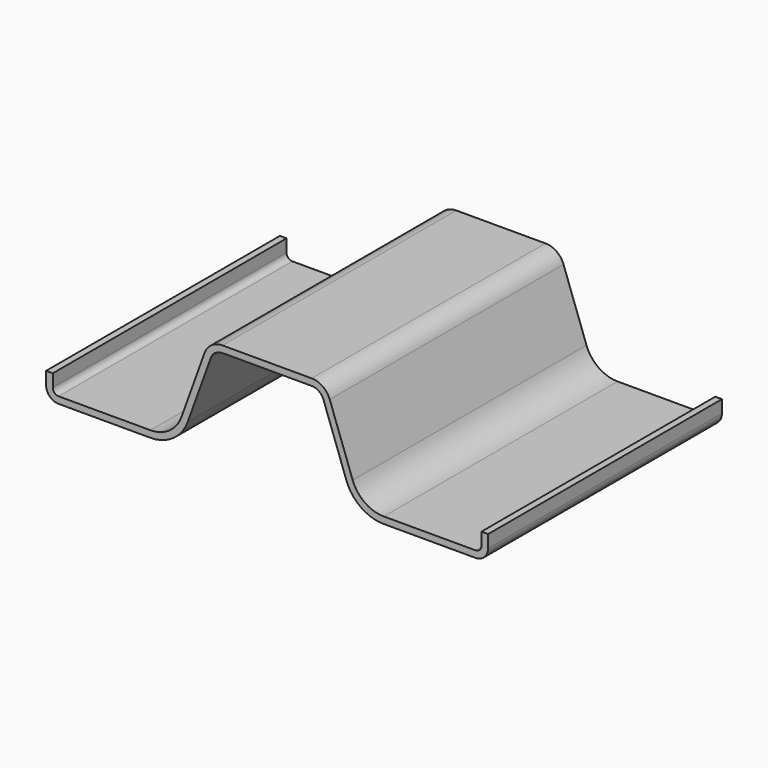
from build123d import *

# Parameters (mm, degrees)
F1_DEPTH = 70


with BuildPart() as f1:
    # F0 (on Front) → F1 (new body)
    with BuildSketch(Plane.XZ):
        with BuildLine():
            Line((-10.678085, 23.5), (0, 23.5))
            Line((0, 23.5), (10.678085, 23.5))
            ThreePointArc((10.678085, 23.5), (12.402223, 22.955066), (13.5, 21.518232))
            Line((13.5, 21.518232), (19, 6.275599))
            ThreePointArc((19, 6.275599), (22.476293, 1.725625), (27.936064, 0))
            Line((27.936064, 0), (49.936064, 0))
            ThreePointArc((49.936064, 0), (52.057384, 0.87868), (52.936064, 3))
            Line((52.936064, 3), (52.936064, 6))
            Line((52.936064, 6), (51.336064, 6))
            Line((51.336064, 6), (51.336064, 3))
            ThreePointArc((51.336064, 3), (50.926014, 2.010051), (49.936064, 1.6))
            Line((49.936064, 1.6), (27.936064, 1.6))
            ThreePointArc((27.936064, 1.6), (23.395834, 3.034994), (20.505021, 6.818656))
            Line((20.505021, 6.818656), (15.005021, 22.061289))
            ThreePointArc((15.005021, 22.061289), (13.321764, 24.264434), (10.678085, 25.1))
            Line((10.678085, 25.1), (0, 25.1))
            Line((0, 25.1), (-10.678085, 25.1))
            ThreePointArc((-10.678085, 25.1), (-13.321764, 24.264434), (-15.005021, 22.061289))
            Line((-15.005021, 22.061289), (-20.505021, 6.818656))
            ThreePointArc((-20.505021, 6.818656), (-23.395834, 3.034994), (-27.936064, 1.6))
            Line((-27.936064, 1.6), (-49.936064, 1.6))
            ThreePointArc((-49.936064, 1.6), (-50.926014, 2.010051), (-51.336064, 3))
            Line((-51.336064, 3), (-51.336064, 6))
            Line((-51.336064, 6), (-52.936064, 6))
            Line((-52.936064, 6), (-52.936064, 3))
            ThreePointArc((-52.936064, 3), (-52.057384, 0.87868), (-49.936064, 0))
            Line((-49.936064, 0), (-27.936064, 0))
            ThreePointArc((-27.936064, 0), (-22.476293, 1.725625), (-19, 6.275599))
            Line((-19, 6.275599), (-13.5, 21.518232))
            ThreePointArc((-13.5, 21.518232), (-12.402223, 22.955066), (-10.678085, 23.5))
        make_face()
    extrude(amount=F1_DEPTH)


solid = f1.part
